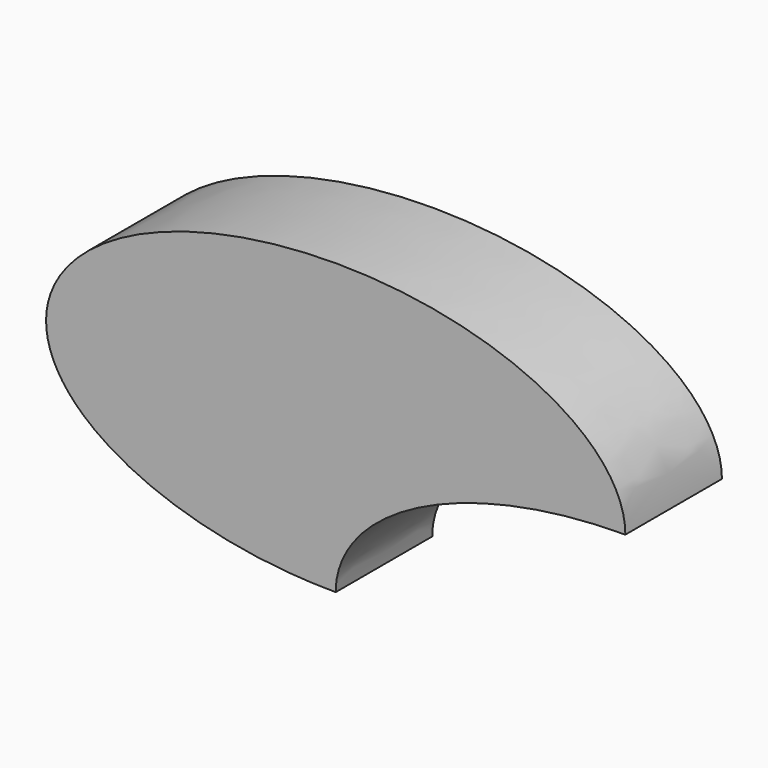
from build123d import *

# Parameters (mm, degrees)
F1_DEPTH = 25


with BuildPart() as f1:
    # F0 (on Front) → F1 (new body)
    with BuildSketch(Plane.XZ):
        with BuildLine():
            add(Edge.make_bspline(
                [(120, 0), (60, 0), (60, -30)],
                knots=[1.5707963268, 1.5707963268, 1.5707963268, 3.1415926536, 3.1415926536, 3.1415926536], degree=2, weights=[1, 0.7071067812, 1]))
            add(Edge.make_bspline(
                [(120, 0), (120, 72.4264068712), (17.5735931288, 21.2132034356), (-84.8528137424, -30), (60, -30)],
                knots=[0, 0, 0, 2.3561944902, 2.3561944902, 4.7123889804, 4.7123889804, 4.7123889804], degree=2, weights=[1, 0.3826834324, 1, 0.3826834324, 1]))
        make_face()
    extrude(amount=-F1_DEPTH)


solid = f1.part
